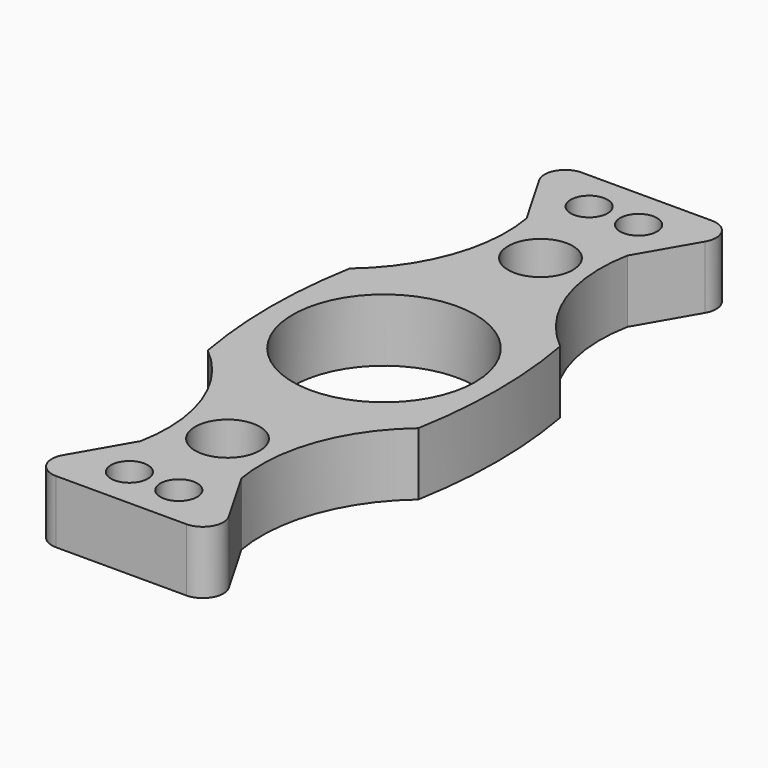
from build123d import *

# Parameters (mm, degrees)
F0_R     = 2.2733
F0_R_2   = 3.991558
F0_R_3   = 11.2522
F1_DEPTH = 7.747


with BuildPart() as f1:
    # F0 (on Top) → F1 (new body)
    with BuildSketch(Plane.XY):
        with BuildLine():
            Line((-10.238358, 36.721247), (-6.219031, 29.75957))
            ThreePointArc((-6.219031, 29.75957), (-7.103307, 19.453476), (-12.983067, 10.943133))
            ThreePointArc((-12.983067, 10.943133), (-13.972901, 0), (-12.983067, -10.943133))
            ThreePointArc((-12.983067, -10.943133), (-7.005384, -19.418275), (-6.219031, -29.75957))
            Line((-6.219031, -29.75957), (-10.238358, -36.721247))
            ThreePointArc((-10.238358, -36.721247), (-10.238358, -39.261247), (-8.038653, -40.531247))
            Line((-8.038653, -40.531247), (8.038653, -40.531247))
            ThreePointArc((8.038653, -40.531247), (10.238358, -39.261247), (10.238358, -36.721247))
            Line((10.238358, -36.721247), (6.219031, -29.75957))
            ThreePointArc((6.219031, -29.75957), (7.103307, -19.453476), (12.983067, -10.943133))
            ThreePointArc((12.983067, -10.943133), (13.972901, 0), (12.983067, 10.943133))
            ThreePointArc((12.983067, 10.943133), (7.005384, 19.418275), (6.219031, 29.75957))
            Line((6.219031, 29.75957), (10.238358, 36.721247))
            ThreePointArc((10.238358, 36.721247), (10.238358, 39.261247), (8.038653, 40.531247))
            Line((8.038653, 40.531247), (-8.038653, 40.531247))
            ThreePointArc((-8.038653, 40.531247), (-10.238358, 39.261247), (-10.238358, 36.721247))
        make_face()
        with Locations((-3.048, -35.44515)):
            Circle(F0_R, mode=Mode.SUBTRACT)
        with Locations((0, -24.129855)):
            Circle(F0_R_2, mode=Mode.SUBTRACT)
        with Locations((3.048, -35.44515)):
            Circle(F0_R, mode=Mode.SUBTRACT)
        Circle(F0_R_3, mode=Mode.SUBTRACT)
        with Locations((0, 24.129855)):
            Circle(F0_R_2, mode=Mode.SUBTRACT)
        with Locations((-3.048, 35.44515)):
            Circle(F0_R, mode=Mode.SUBTRACT)
        with Locations((3.048, 35.44515)):
            Circle(F0_R, mode=Mode.SUBTRACT)
    extrude(amount=F1_DEPTH)


solid = f1.part
